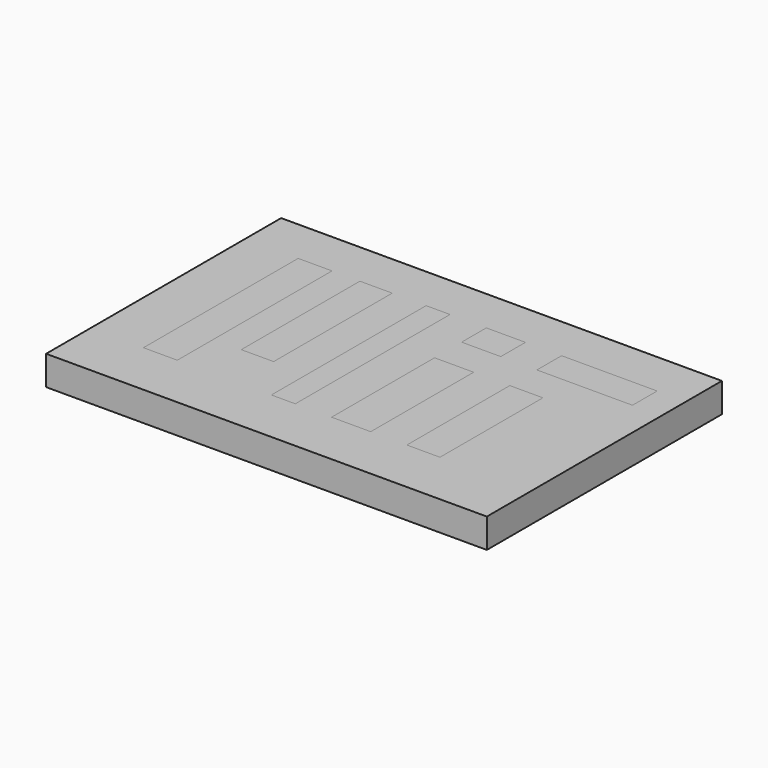
from build123d import *

# Parameters (mm, degrees)
F0_W     = 76.2
F0_H     = 50.8
F2_DEPTH = 5.08
F1_W     = 5.854954
F1_H     = 33.438297
F1_W_2   = 5.594734
F1_H_2   = 25.63169
F1_W_3   = 4.135536
F1_W_4   = 6.765726
F1_H_3   = 5.334515
F1_H_4   = 22.248828
F1_W_5   = 16.523983
F1_W_6   = 5.724842
F3_DEPTH = 5.08


with BuildPart() as f2:
    # F0 (on Top) → F2 (new body)
    with BuildSketch(Plane.XY):
        with Locations((2.685499, -3.435544)):
            Rectangle(F0_W, F0_H)
    extrude(amount=F2_DEPTH)


with BuildPart() as f3:
    # F1 (on Top) → F3 (new body)
    with BuildSketch(Plane.XY):
        with Locations((-23.326776, -2.52775)):
            Rectangle(F1_W, F1_H)
        with Locations((-12.787858, 1.375553)):
            Rectangle(F1_W_2, F1_H_2)
        with Locations((-2.067768, -2.52775)):
            Rectangle(F1_W_3, F1_H)
        with Locations((9.656135, 11.52414)):
            Rectangle(F1_W_4, F1_H_3)
        with Locations((9.656135, -8.122485)):
            Rectangle(F1_W_4, F1_H_4)
        with Locations((27.546273, 11.52414)):
            Rectangle(F1_W_5, F1_H_3)
        with Locations((22.146703, -8.122485)):
            Rectangle(F1_W_6, F1_H_4)
    extrude(amount=F3_DEPTH)


with BuildPart() as f2_1:
    add(f2.part)

    # F4: cut F3
    add(f3.part, mode=Mode.SUBTRACT)


solid = Compound([f3.part, f2_1.part])
